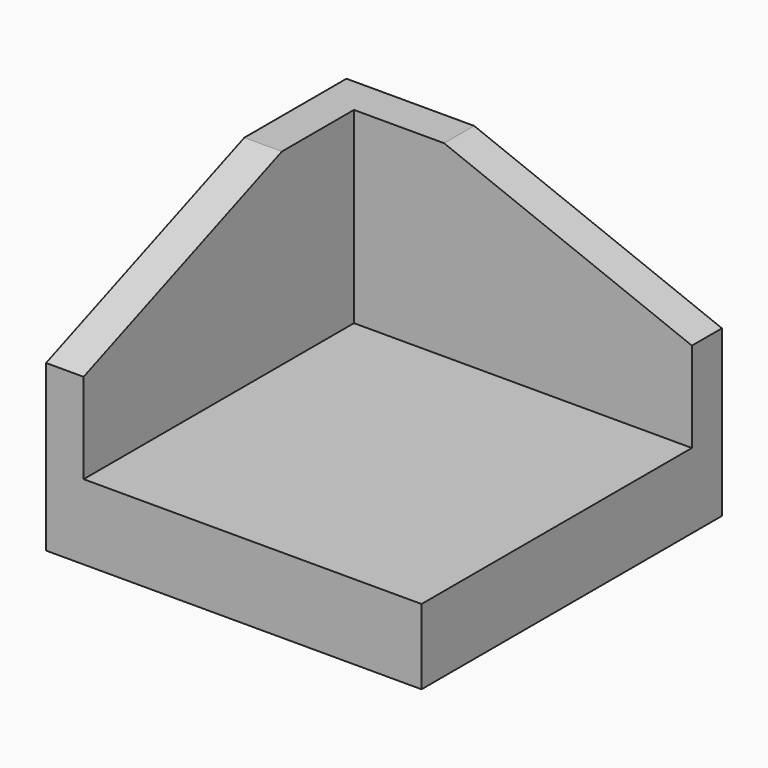
from build123d import *

# Parameters (mm, degrees)
F0_W      = 50
F0_H      = 50
F1_DEPTH  = 5
F2_W      = 50
F2_H      = 5
F3_DEPTH  = 25
F4_W      = 5
F4_H      = 45
F5_DEPTH  = 25
F7_DEPTH  = 5
F9_DEPTH  = 5
F10_W     = 50
F10_H     = 50
F11_DEPTH = 5


with BuildPart() as f1:
    # F0 (on Top) → F1 (new body)
    with BuildSketch(Plane.XY):
        Rectangle(F0_W, F0_H)
    extrude(amount=F1_DEPTH)

    # F2 (on face) → F3 (join)
    with BuildSketch(Plane.XY.offset(5)):
        with Locations((0, 22.5)):
            Rectangle(F2_W, F2_H)
    extrude(amount=F3_DEPTH)

    # F4 (on face) → F5 (join)
    with BuildSketch(Plane.XY.offset(5)):
        with Locations((-22.5, -2.5)):
            Rectangle(F4_W, F4_H)
    extrude(amount=F5_DEPTH)

    # F6 (on face) → F7 (cut)
    with BuildSketch(Plane(origin=(0, 25, 0), x_dir=(-1, 0, 0), z_dir=(0, 1, 0))):
        Polygon((-25, 30), (-25, 17), (8, 30), align=None)
    extrude(amount=-F7_DEPTH, mode=Mode.SUBTRACT)

    # F8 (on face) → F9 (cut)
    with BuildSketch(Plane(origin=(-25, 0, 0), x_dir=(0, -1, 0), z_dir=(-1, 0, 0))):
        Polygon((25, 30), (-8, 30), (25, 17), align=None)
    extrude(amount=-F9_DEPTH, mode=Mode.SUBTRACT)

    # F10 (on face) → F11 (join)
    with BuildSketch(Plane(origin=(0, 0, 0), x_dir=(1, 0, 0), z_dir=(0, 0, -1))):
        Rectangle(F10_W, F10_H)
    extrude(amount=F11_DEPTH)


solid = f1.part
